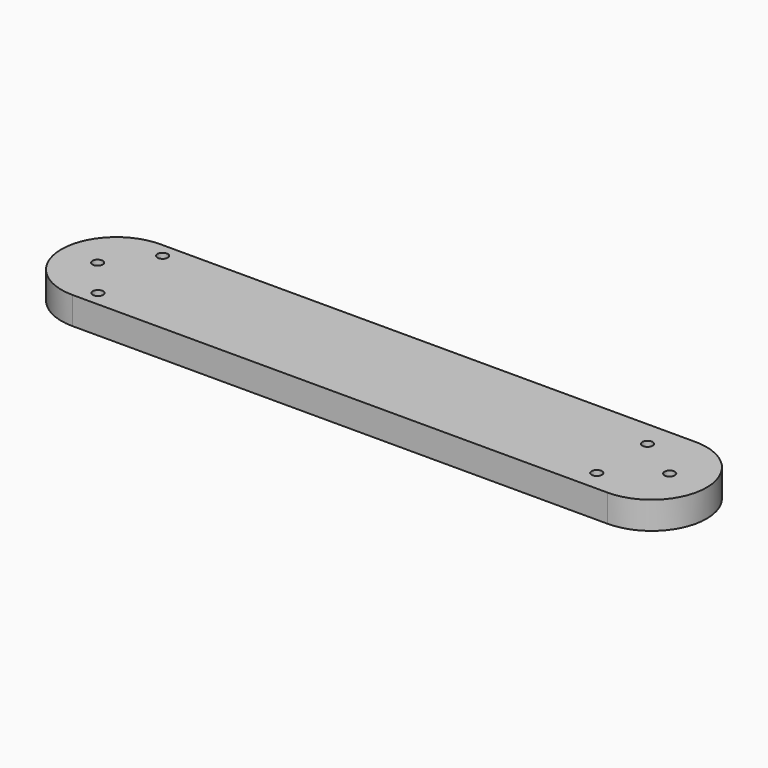
from build123d import *

# Parameters (mm, degrees)
F0_R     = 2.1336
F0_R_2   = 2.8448
F0_R_3   = 6.604
F0_R_4   = 2.38125
F0_R_5   = 3.429
F0_R_6   = 4.8641
F0_R_7   = 1.1938
F1_DEPTH = 6.35


with BuildPart() as f1:
    # F0 (on Top) → F1 (new body)
    with BuildSketch(Plane.XY):
        with BuildLine():
            Line((12.7, -25.595345), (136.525, -25.595345))
            ThreePointArc((136.525, -25.595345), (149.056939, -14.954596), (140.589, -0.863143))
            ThreePointArc((140.589, -0.863143), (138.58425, -0.363407), (136.525, -0.195345))
            Line((136.525, -0.195345), (15.875, -0.195345))
            Line((15.875, -0.195345), (12.7, -0.195345))
            ThreePointArc((12.7, -0.195345), (0, -12.895345), (12.7, -25.595345))
        make_face()
        with Locations((15.875, -22.13414)):
            Circle(F0_R, mode=Mode.SUBTRACT)
        with Locations((130.175, -20.826914)):
            Circle(F0_R_2, mode=Mode.SUBTRACT)
        with Locations((8.382, -12.895338)):
            Circle(F0_R_3, mode=Mode.SUBTRACT)
        with Locations((15.875, -3.4798)):
            Circle(F0_R_4, mode=Mode.SUBTRACT)
        with Locations((140.589, -12.768617)):
            Circle(F0_R_5, mode=Mode.SUBTRACT)
        with Locations((130.2004, -6.196426)):
            Circle(F0_R_6, mode=Mode.SUBTRACT)
        with Locations((8.382, -12.895338)):
            Circle(F0_R_3)
        with Locations((8.382, -12.895338)):
            Circle(F0_R_7, mode=Mode.SUBTRACT)
        with Locations((15.875, -22.13414)):
            Circle(F0_R)
        with Locations((15.875, -22.13414)):
            Circle(F0_R_7, mode=Mode.SUBTRACT)
        with Locations((15.875, -3.4798)):
            Circle(F0_R_4)
        with Locations((15.875, -3.4798)):
            Circle(F0_R_7, mode=Mode.SUBTRACT)
        with Locations((130.2004, -6.196426)):
            Circle(F0_R_6)
        with Locations((130.2004, -6.196426)):
            Circle(F0_R_7, mode=Mode.SUBTRACT)
        with Locations((140.589, -12.768617)):
            Circle(F0_R_5)
        with Locations((140.589, -12.768617)):
            Circle(F0_R_7, mode=Mode.SUBTRACT)
        with Locations((130.175, -20.826914)):
            Circle(F0_R_2)
        with Locations((130.175, -20.826914)):
            Circle(F0_R_7, mode=Mode.SUBTRACT)
    extrude(amount=F1_DEPTH)


solid = f1.part
